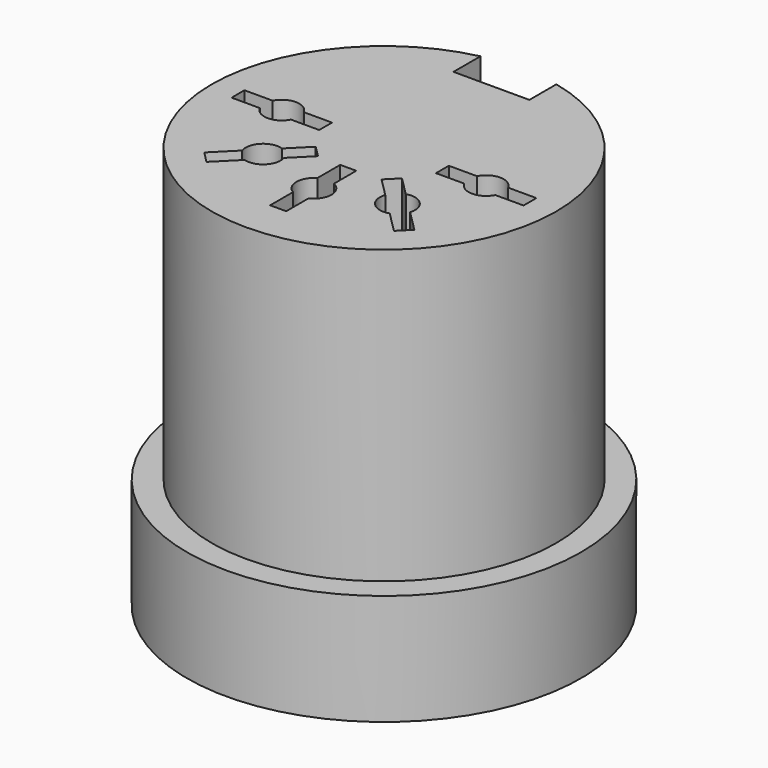
from build123d import *

# Parameters (mm, degrees)
CYLINDER030_R           = 5.9
CYLINDER030_DEPTH       = 13.8
CYLINDER032_R           = 0.6
CYLINDER032_DEPTH       = 16
CYLINDER033_R           = 0.6
CYLINDER033_DEPTH       = 16
BOX045_W                = 1.3
BOX045_H                = 2.6
BOX045_DEPTH            = 11
CYLINDER034_R           = 0.6
CYLINDER034_DEPTH       = 16
CYLINDER035_R           = 0.6
CYLINDER035_DEPTH       = 16
CYLINDER036_R           = 0.6
CYLINDER036_DEPTH       = 16
CYLINDER038_W           = 6.75
CYLINDER038_H           = 3
CYLINDER038_ANGLE       = 262
BOX047_W                = 4.4
BOX047_H                = 10.19
BOX047_DEPTH            = 2
CYLINDER039_R           = 6.75
CYLINDER039_DEPTH       = 1
BOX048_W                = 3
BOX048_H                = 0.55
BOX048_DEPTH            = 14
BOX049_W                = 3
BOX049_H                = 0.55
BOX049_DEPTH            = 14
BOX050_W                = 3
BOX050_H                = 0.55
BOX050_DEPTH            = 14
BOX051_W                = 3
BOX051_H                = 0.55
BOX051_DEPTH            = 14
BOX052_W                = 3
BOX052_H                = 0.55
BOX052_DEPTH            = 14
BOX044_W                = 5
BOX044_H                = 11
BOX044_DEPTH            = 3
BODY025_PLACEMENT_ANGLE = 90


with BuildPart() as part:
    # Cylinder030 → Cylinder030 (join)
    with BuildSketch(Plane.XY.offset(2)):
        Circle(CYLINDER030_R)
    extrude(amount=CYLINDER030_DEPTH)

    # Cylinder032 → Cylinder032 (cut)
    with BuildSketch(Plane(origin=(0, 3.5, 0), x_dir=(1, 0, 0), z_dir=(0, 0, 1))):
        Circle(CYLINDER032_R)
    extrude(amount=CYLINDER032_DEPTH, mode=Mode.SUBTRACT)

    # Cylinder033 → Cylinder033 (cut)
    with BuildSketch(Plane(origin=(0, -3.5, 0), x_dir=(1, 0, 0), z_dir=(0, 0, 1))):
        Circle(CYLINDER033_R)
    extrude(amount=CYLINDER033_DEPTH, mode=Mode.SUBTRACT)

    # Box045 → Box045 (cut)
    with BuildSketch(Plane(origin=(4.6, -1.3, 5), x_dir=(1, 0, 0), z_dir=(0, 0, 1))):
        with Locations((0.65, 1.3)):
            Rectangle(BOX045_W, BOX045_H)
    extrude(amount=BOX045_DEPTH, mode=Mode.SUBTRACT)

    # Cylinder034 → Cylinder034 (cut)
    with BuildSketch(Plane(origin=(-3, 0, 0), x_dir=(1, 0, 0), z_dir=(0, 0, 1))):
        Circle(CYLINDER034_R)
    extrude(amount=CYLINDER034_DEPTH, mode=Mode.SUBTRACT)

    # Cylinder035 → Cylinder035 (cut)
    with BuildSketch(Plane(origin=(-2.3, -2.3, 0), x_dir=(1, 0, 0), z_dir=(0, 0, 1))):
        Circle(CYLINDER035_R)
    extrude(amount=CYLINDER035_DEPTH, mode=Mode.SUBTRACT)

    # Cylinder036 → Cylinder036 (cut)
    with BuildSketch(Plane(origin=(-2.3, 2.3, 0), x_dir=(1, 0, 0), z_dir=(0, 0, 1))):
        Circle(CYLINDER036_R)
    extrude(amount=CYLINDER036_DEPTH, mode=Mode.SUBTRACT)

    # Cylinder038 → Cylinder038 (revolve)
    with BuildSketch(Plane(origin=(0, 0, 2), x_dir=(0.656059, 0.75471, 0), z_dir=(0.75471, -0.656059, 0))):
        with Locations((3.375, 1.5)):
            Rectangle(CYLINDER038_W, CYLINDER038_H)
    revolve(axis=Axis((0, 0, 2), (0, 0, 1)), revolution_arc=CYLINDER038_ANGLE)

    # Box047 → Box047 (join)
    with BuildSketch(Plane(origin=(0.03, -5.095, 2), x_dir=(1, 0, 0), z_dir=(0, 0, 1))):
        with Locations((2.2, 5.095)):
            Rectangle(BOX047_W, BOX047_H)
    extrude(amount=BOX047_DEPTH)

    # Cylinder039 → Cylinder039 (join)
    with BuildSketch(Plane.XY.offset(4.8)):
        Circle(CYLINDER039_R)
    extrude(amount=CYLINDER039_DEPTH)

    # Box048 → Box048 (cut)
    with BuildSketch(Plane(origin=(0.275, -5, 2), x_dir=(0, 1, 0), z_dir=(0, 0, 1))):
        with Locations((1.5, 0.275)):
            Rectangle(BOX048_W, BOX048_H)
    extrude(amount=BOX048_DEPTH, mode=Mode.SUBTRACT)

    # Box049 → Box049 (cut)
    with BuildSketch(Plane(origin=(-3.6, 3.2, 2), x_dir=(0.707107, -0.707107, 0), z_dir=(0, 0, 1))):
        with Locations((1.5, 0.275)):
            Rectangle(BOX049_W, BOX049_H)
    extrude(amount=BOX049_DEPTH, mode=Mode.SUBTRACT)

    # Box050 → Box050 (cut)
    with BuildSketch(Plane(origin=(-4.5, -0.25, 2), x_dir=(1, 0, 0), z_dir=(0, 0, 1))):
        with Locations((1.5, 0.275)):
            Rectangle(BOX050_W, BOX050_H)
    extrude(amount=BOX050_DEPTH, mode=Mode.SUBTRACT)

    # Box051 → Box051 (cut)
    with BuildSketch(Plane(origin=(-3.2, -3.6, 2), x_dir=(0.707107, 0.707107, 0), z_dir=(0, 0, 1))):
        with Locations((1.5, 0.275)):
            Rectangle(BOX051_W, BOX051_H)
    extrude(amount=BOX051_DEPTH, mode=Mode.SUBTRACT)

    # Box052 → Box052 (cut)
    with BuildSketch(Plane(origin=(0.275, 2, 2), x_dir=(0, 1, 0), z_dir=(0, 0, 1))):
        with Locations((1.5, 0.275)):
            Rectangle(BOX052_W, BOX052_H)
    extrude(amount=BOX052_DEPTH, mode=Mode.SUBTRACT)

    # Box044 → Box044 (cut)
    with BuildSketch(Plane(origin=(4.39, -5.5, 2), x_dir=(1, 0, 0), z_dir=(0, 0, 1))):
        with Locations((2.5, 5.5)):
            Rectangle(BOX044_W, BOX044_H)
    extrude(amount=BOX044_DEPTH, mode=Mode.SUBTRACT)


with BuildPart() as part_1:
    # Body025 placement: moved
    add(part.part.rotate(Axis((0, 0, 0), (0, 0, 1)), BODY025_PLACEMENT_ANGLE))


solid = part_1.part
